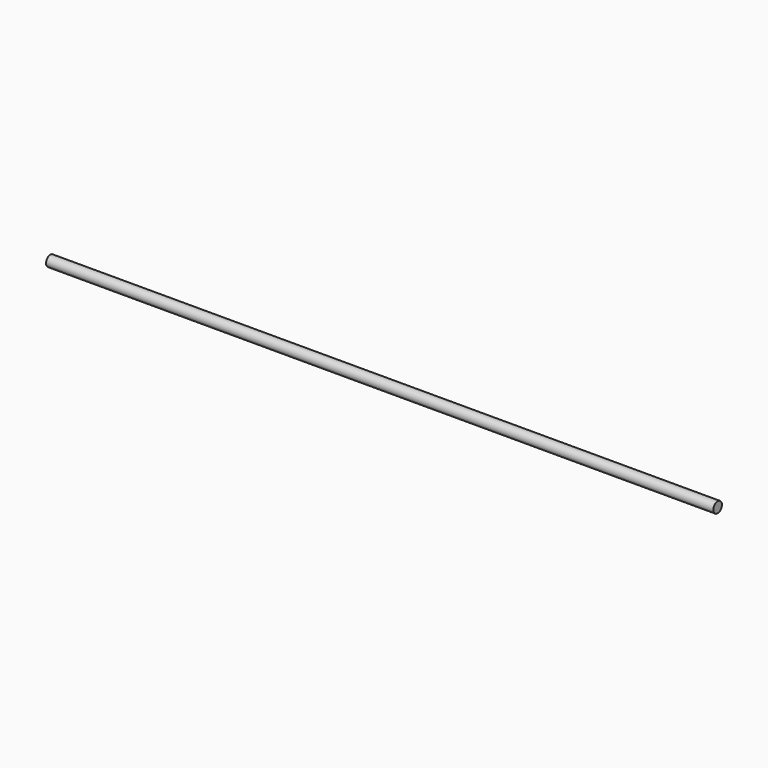
from build123d import *

# Parameters (mm, degrees)
SKETCH_R  = 4
PAD_DEPTH = 250


with BuildPart() as part:
    # Sketch → Pad (new body, symmetric)
    with BuildSketch(Plane.YZ):
        Circle(SKETCH_R)
    extrude(amount=PAD_DEPTH, both=True)


solid = part.part
